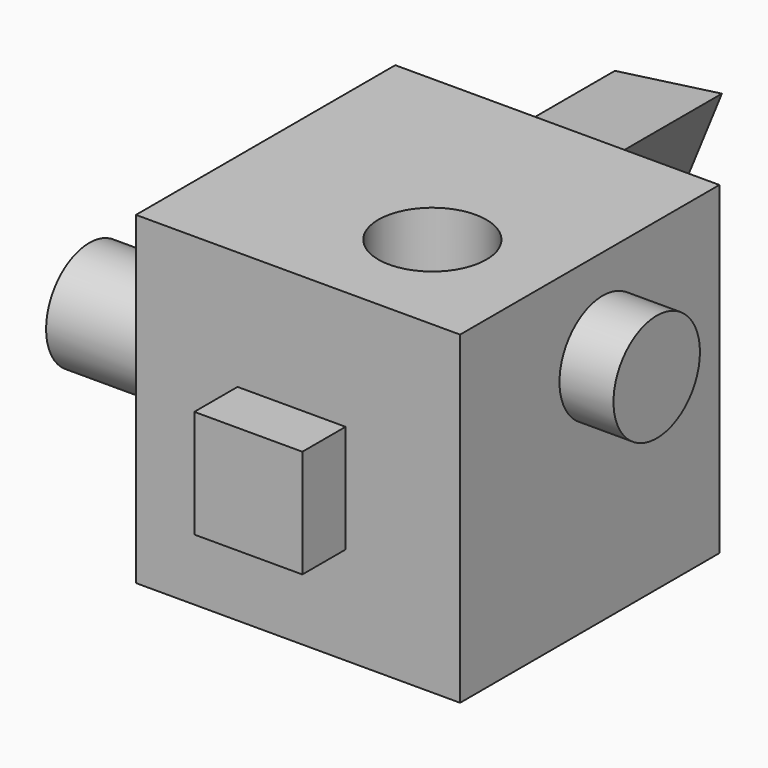
from build123d import *

# Parameters (mm, degrees)
F0_W      = 76.2
F0_H      = 76.2
F1_DEPTH  = 76.2
F2_W      = 25.4
F2_H      = 25.4
F3_DEPTH  = 12.7
F4_R      = 12.7
F5_DEPTH  = 12.7
F7_D      = 25.4
F9_DEPTH  = 38.1
F10_R     = 12.7
F11_DEPTH = 25.4


with BuildPart() as f1:
    # F0 (on Front) → F1 (new body)
    with BuildSketch(Plane.XZ):
        with Locations((-21.454936, 66.037557)):
            Rectangle(F0_W, F0_H)
    extrude(amount=F1_DEPTH)

    # F2 (on face) → F3 (join)
    with BuildSketch(Plane.XZ.offset(76.2)):
        with Locations((-22.974357, 63.60508)):
            Rectangle(F2_W, F2_H)
    extrude(amount=F3_DEPTH)

    # F4 (on face) → F5 (join)
    with BuildSketch(Plane.YZ.offset(16.645064)):
        with Locations((-34.295596, 82.468808)):
            Circle(F4_R)
    extrude(amount=F5_DEPTH)

    # F7 (through all)
    with Locations(Plane.XY.offset(104.137557)):
        with Locations((-10.916158, -49.894316)):
            Hole(F7_D / 2)

    # F8 (on face) → F9 (join)
    with BuildSketch(Plane(origin=(0, 0, 0), x_dir=(-1, 0, 0), z_dir=(0, 1, 0))):
        Polygon((13.244484, 97.82351), (22.827807, 74.300757), (38.407448, 94.361535), align=None)
    extrude(amount=F9_DEPTH)

    # F10 (on face) → F11 (join)
    with BuildSketch(Plane(origin=(-59.554936, 0, 0), x_dir=(0, -1, 0), z_dir=(-1, 0, 0))):
        with Locations((58.153983, 70.059642)):
            Circle(F10_R)
    extrude(amount=F11_DEPTH)


solid = f1.part
